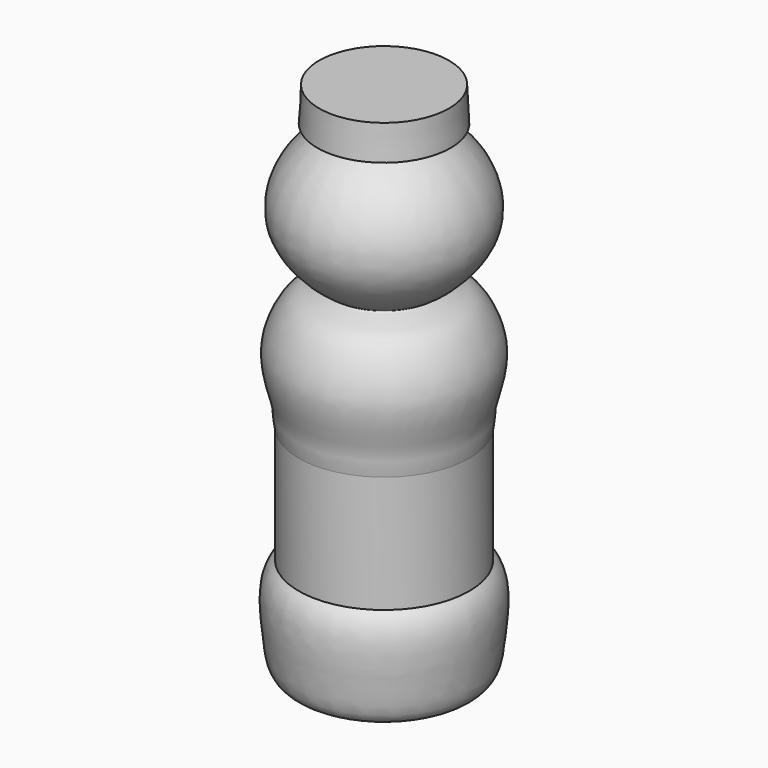
from build123d import *


with BuildPart() as f1:
    # F0 (on Front) → F1 (revolve)
    with BuildSketch(Plane.XZ):
        with BuildLine():
            Line((3.9444961585, 43.9773366617), (3.9231646806, 44.4039665163))
            Line((3.9231646806, 44.4039665163), (5.1133715336, 44.4634768176))
            Line((5.1133715336, 44.4634768176), (4.981980685, 47.0912956138))
            Line((4.981980685, 47.0912956138), (0, 47.0912956138))
            Line((0, 47.0912956138), (0, 7.1582561359))
            add(Edge.make_bspline(
                [(6.5431171097, 15.0010855868), (7.0349245117, 14.593021776), (7.6523978503, 13.1390352714), (7.2604517044, 9.9886140323), (7.0288985398, 7.2321856672), (4.3594675654, 6.8083003248), (4.0783048525, 10.0842572944), (2.0111759811, 10.2909377837), (1.5428081332, 6.6182776801), (0.4293361551, 7.0076696516), (0, 7.1582561359)],
                knots=[0, 0, 0, 0, 0.1214105744, 0.2768491945, 0.412974552, 0.5243741906, 0.6651923924, 0.7594357826, 0.907142279, 1, 1, 1, 1], degree=3))
            Line((6.5431171097, 15.0010855868), (6.5431171097, 23.9663589746))
            add(Edge.make_bspline(
                [(3.9444961585, 33.8615421206), (3.5161496623, 33.686427821), (5.4189091817, 33.2901729856), (6.6040684154, 31.9902422443), (7.8463902568, 29.0125610286), (6.4944183695, 25.2401712255), (6.750688211, 25.2636798874), (6.5431171097, 23.9663589746)],
                knots=[0, 0, 0, 0, 0.1428681998, 0.3391141206, 0.5789635521, 0.823014967, 1, 1, 1, 1], degree=3))
            add(Edge.make_bspline(
                [(3.9444961585, 43.9773366617), (6.5083124056, 42.4221794894), (8.6423382563, 37.3013389898), (4.3381832316, 34.0619620986), (3.9444961585, 33.8615421206)],
                knots=[0, 0, 0, 0, 0.5605195258, 1, 1, 1, 1], degree=3))
        make_face()
    revolve(axis=Axis((0, 0, 27.0334586967), (0, 0, -1)))


solid = f1.part
